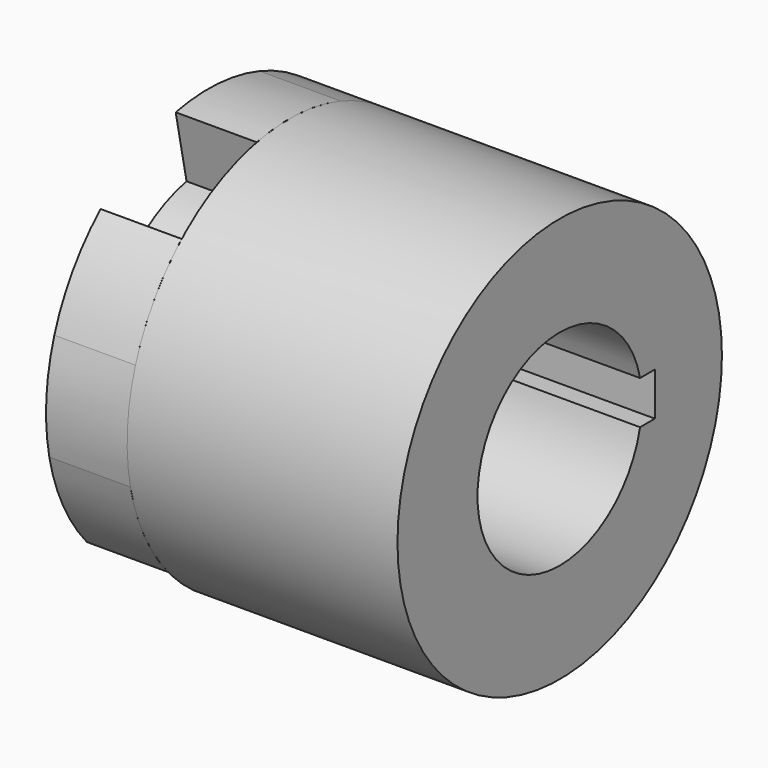
from build123d import *

# Parameters (mm, degrees)
F1_R     = 37.5
F2_DEPTH = 50
F4_DEPTH = 15
F5_DEPTH = 15


with BuildPart() as f2:
    # F1 (on offset) → F2 (new body)
    with BuildSketch(Plane.YZ.offset(15)):
        Circle(F1_R)
        with BuildLine():
            ThreePointArc((18.574175621, -4), (-19, 0), (18.574175621, 4))
            Line((18.574175621, 4), (22, 4))
            Line((22, 4), (22, -4))
            Line((22, -4), (18.574175621, -4))
        make_face(mode=Mode.SUBTRACT)
    extrude(amount=F2_DEPTH)

    # F3 (on Right) → F4 (join, through all)
    with BuildSketch(Plane.YZ):
        with BuildLine():
            ThreePointArc((7.5227650439, -36.7376918994), (16.7748473777, -33.5388505387), (24.8837515844, -28.0543919393))
            Line((24.8837515844, -28.0543919393), (16.589167723, -18.7029279595))
            ThreePointArc((16.589167723, -18.7029279595), (11.1832315851, -22.3592336924), (5.015176696, -24.4917945996))
            Line((5.015176696, -24.4917945996), (7.5227650439, -36.7376918994))
        make_face()
        with BuildLine():
            Line((-23.7181046555, 7.9026268766), (-35.5771569832, 11.8539403149))
            ThreePointArc((-35.5771569832, 11.8539403149), (-37.4329202691, 2.2419812956), (-36.7376918994, -7.5227650439))
            Line((-36.7376918994, -7.5227650439), (-24.4917945996, -5.015176696))
            ThreePointArc((-24.4917945996, -5.015176696), (-24.9552801794, 1.4946541971), (-23.7181046555, 7.9026268766))
        make_face()
        with BuildLine():
            Line((18.7029279595, 16.589167723), (28.0543919393, 24.8837515844))
            ThreePointArc((28.0543919393, 24.8837515844), (20.6580728914, 31.296869243), (11.8539403149, 35.5771569832))
            Line((11.8539403149, 35.5771569832), (7.9026268766, 23.7181046555))
            ThreePointArc((7.9026268766, 23.7181046555), (13.7720485942, 20.8645794954), (18.7029279595, 16.589167723))
        make_face()
    extrude(amount=F4_DEPTH)


with BuildPart() as f5:
    # F3 (on Right) → F5 (new body, through all)
    with BuildSketch(Plane.YZ):
        with BuildLine():
            Line((7.9026268766, 23.7181046555), (11.8539403149, 35.5771569832))
            ThreePointArc((11.8539403149, 35.5771569832), (2.2419812956, 37.4329202691), (-7.5227650439, 36.7376918994))
            Line((-7.5227650439, 36.7376918994), (-5.015176696, 24.4917945996))
            ThreePointArc((-5.015176696, 24.4917945996), (1.4946541971, 24.9552801794), (7.9026268766, 23.7181046555))
        make_face()
        with BuildLine():
            Line((-16.589167723, 18.7029279595), (-24.8837515844, 28.0543919393))
            ThreePointArc((-24.8837515844, 28.0543919393), (-31.296869243, 20.6580728914), (-35.5771569832, 11.8539403149))
            Line((-35.5771569832, 11.8539403149), (-23.7181046555, 7.9026268766))
            ThreePointArc((-23.7181046555, 7.9026268766), (-20.8645794954, 13.7720485942), (-16.589167723, 18.7029279595))
        make_face()
        with BuildLine():
            ThreePointArc((-36.7376918994, -7.5227650439), (-33.5388505387, -16.7748473777), (-28.0543919393, -24.8837515844))
            Line((-28.0543919393, -24.8837515844), (-18.7029279595, -16.589167723))
            ThreePointArc((-18.7029279595, -16.589167723), (-22.3592336924, -11.1832315851), (-24.4917945996, -5.015176696))
            Line((-24.4917945996, -5.015176696), (-36.7376918994, -7.5227650439))
        make_face()
        with BuildLine():
            ThreePointArc((-11.8539403149, -35.5771569832), (-2.2419812956, -37.4329202691), (7.5227650439, -36.7376918994))
            Line((7.5227650439, -36.7376918994), (5.015176696, -24.4917945996))
            ThreePointArc((5.015176696, -24.4917945996), (-1.4946541971, -24.9552801794), (-7.9026268766, -23.7181046555))
            Line((-7.9026268766, -23.7181046555), (-11.8539403149, -35.5771569832))
        make_face()
        with BuildLine():
            ThreePointArc((24.8837515844, -28.0543919393), (31.296869243, -20.6580728914), (35.5771569832, -11.8539403149))
            Line((35.5771569832, -11.8539403149), (23.7181046555, -7.9026268766))
            ThreePointArc((23.7181046555, -7.9026268766), (20.8645794954, -13.7720485942), (16.589167723, -18.7029279595))
            Line((16.589167723, -18.7029279595), (24.8837515844, -28.0543919393))
        make_face()
        with BuildLine():
            Line((24.4653607428, 5.1425794817), (36.7376918994, 7.5227650439))
            ThreePointArc((36.7376918994, 7.5227650439), (33.5388505387, 16.7748473777), (28.0543919393, 24.8837515844))
            Line((28.0543919393, 24.8837515844), (18.7029279595, 16.589167723))
            ThreePointArc((18.7029279595, 16.589167723), (22.330055597, 11.2413796767), (24.4653607428, 5.1425794817))
        make_face()
        with BuildLine():
            Line((18.574175621, 4), (24.4653607428, 5.1425794817))
            ThreePointArc((24.4653607428, 5.1425794817), (22.330055597, 11.2413796767), (18.7029279595, 16.589167723))
            Line((18.7029279595, 16.589167723), (14.2142252492, 12.6077674694))
            ThreePointArc((14.2142252492, 12.6077674694), (16.9497263432, 8.5852651031), (18.574175621, 4))
        make_face()
        with BuildLine():
            Line((14.2142252492, 12.6077674694), (18.7029279595, 16.589167723))
            ThreePointArc((18.7029279595, 16.589167723), (13.7720485942, 20.8645794954), (7.9026268766, 23.7181046555))
            Line((7.9026268766, 23.7181046555), (6.0059964262, 18.0257595382))
            ThreePointArc((6.0059964262, 18.0257595382), (10.4667569316, 15.8570804165), (14.2142252492, 12.6077674694))
        make_face()
        with BuildLine():
            Line((6.0059964262, 18.0257595382), (7.9026268766, 23.7181046555))
            ThreePointArc((7.9026268766, 23.7181046555), (1.4946541971, 24.9552801794), (-5.015176696, 24.4917945996))
            Line((-5.015176696, 24.4917945996), (-3.8115342889, 18.6137638957))
            ThreePointArc((-3.8115342889, 18.6137638957), (1.1359371898, 18.9660129363), (6.0059964262, 18.0257595382))
        make_face()
        with BuildLine():
            Line((-3.8115342889, 18.6137638957), (-5.015176696, 24.4917945996))
            ThreePointArc((-5.015176696, 24.4917945996), (-11.1832315851, 22.3592336924), (-16.589167723, 18.7029279595))
            Line((-16.589167723, 18.7029279595), (-12.6077674694, 14.2142252492))
            ThreePointArc((-12.6077674694, 14.2142252492), (-8.4992560047, 16.9930176063), (-3.8115342889, 18.6137638957))
        make_face()
        with BuildLine():
            Line((-12.6077674694, 14.2142252492), (-16.589167723, 18.7029279595))
            ThreePointArc((-16.589167723, 18.7029279595), (-20.8645794954, 13.7720485942), (-23.7181046555, 7.9026268766))
            Line((-23.7181046555, 7.9026268766), (-18.0257595382, 6.0059964262))
            ThreePointArc((-18.0257595382, 6.0059964262), (-15.8570804165, 10.4667569316), (-12.6077674694, 14.2142252492))
        make_face()
        with BuildLine():
            Line((-18.0257595382, 6.0059964262), (-23.7181046555, 7.9026268766))
            ThreePointArc((-23.7181046555, 7.9026268766), (-24.9552801794, 1.4946541971), (-24.4917945996, -5.015176696))
            Line((-24.4917945996, -5.015176696), (-18.6137638957, -3.8115342889))
            ThreePointArc((-18.6137638957, -3.8115342889), (-18.9660129363, 1.1359371898), (-18.0257595382, 6.0059964262))
        make_face()
        with BuildLine():
            ThreePointArc((-24.4917945996, -5.015176696), (-22.3592336924, -11.1832315851), (-18.7029279595, -16.589167723))
            Line((-18.7029279595, -16.589167723), (-14.2142252492, -12.6077674694))
            ThreePointArc((-14.2142252492, -12.6077674694), (-16.9930176063, -8.4992560047), (-18.6137638957, -3.8115342889))
            Line((-18.6137638957, -3.8115342889), (-24.4917945996, -5.015176696))
        make_face()
        with BuildLine():
            ThreePointArc((-18.7029279595, -16.589167723), (-13.7720485942, -20.8645794954), (-7.9026268766, -23.7181046555))
            Line((-7.9026268766, -23.7181046555), (-6.0059964262, -18.0257595382))
            ThreePointArc((-6.0059964262, -18.0257595382), (-10.4667569316, -15.8570804165), (-14.2142252492, -12.6077674694))
            Line((-14.2142252492, -12.6077674694), (-18.7029279595, -16.589167723))
        make_face()
        with BuildLine():
            ThreePointArc((-7.9026268766, -23.7181046555), (-1.4946541971, -24.9552801794), (5.015176696, -24.4917945996))
            Line((5.015176696, -24.4917945996), (3.8115342889, -18.6137638957))
            ThreePointArc((3.8115342889, -18.6137638957), (-1.1359371898, -18.9660129363), (-6.0059964262, -18.0257595382))
            Line((-6.0059964262, -18.0257595382), (-7.9026268766, -23.7181046555))
        make_face()
        with BuildLine():
            ThreePointArc((5.015176696, -24.4917945996), (11.1832315851, -22.3592336924), (16.589167723, -18.7029279595))
            Line((16.589167723, -18.7029279595), (12.6077674694, -14.2142252492))
            ThreePointArc((12.6077674694, -14.2142252492), (8.4992560047, -16.9930176063), (3.8115342889, -18.6137638957))
            Line((3.8115342889, -18.6137638957), (5.015176696, -24.4917945996))
        make_face()
        with BuildLine():
            ThreePointArc((16.589167723, -18.7029279595), (20.8645794954, -13.7720485942), (23.7181046555, -7.9026268766))
            Line((23.7181046555, -7.9026268766), (18.0257595382, -6.0059964262))
            ThreePointArc((18.0257595382, -6.0059964262), (15.8570804165, -10.4667569316), (12.6077674694, -14.2142252492))
            Line((12.6077674694, -14.2142252492), (16.589167723, -18.7029279595))
        make_face()
        with BuildLine():
            ThreePointArc((25, 0), (24.8659809637, 2.5851481031), (24.4653607428, 5.1425794817))
            Line((24.4653607428, 5.1425794817), (18.574175621, 4))
            ThreePointArc((18.574175621, 4), (18.5942085394, 3.9058173017), (18.6137638957, 3.8115342889))
            ThreePointArc((18.6137638957, 3.8115342889), (18.9031943599, 1.9155268181), (19, 0))
            ThreePointArc((19, 0), (18.7548584535, -3.042249889), (18.0257595382, -6.0059964262))
            Line((18.0257595382, -6.0059964262), (23.7181046555, -7.9026268766))
            ThreePointArc((23.7181046555, -7.9026268766), (24.6774453336, -4.0029603803), (25, 0))
        make_face()
    extrude(amount=F5_DEPTH)


solid = Compound([f2.part, f5.part])
